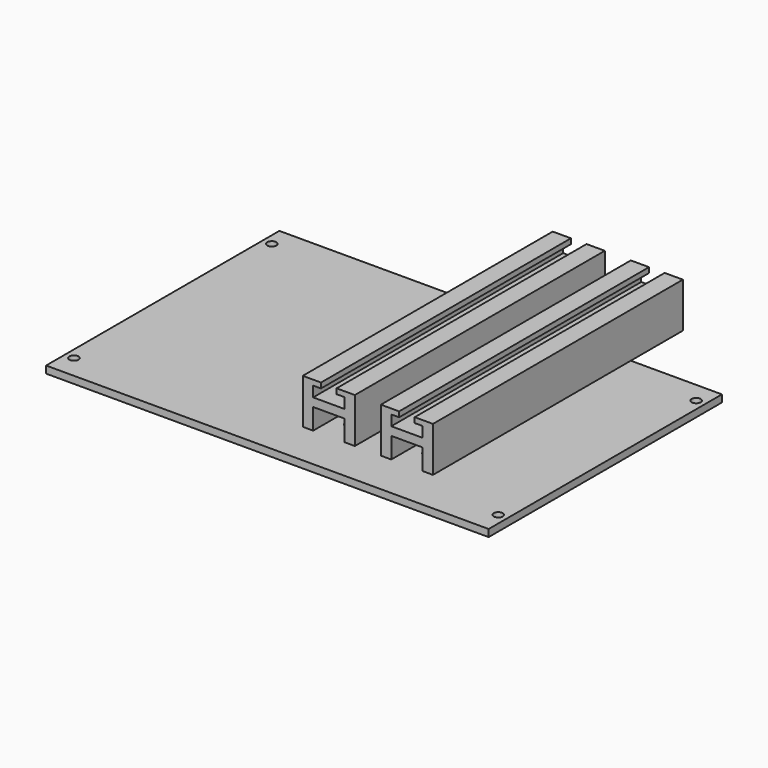
from build123d import *

# Parameters (mm, degrees)
F0_W          = 170
F0_H          = 112
F1_DEPTH      = 2.75
F2_R          = 1.75
F3_DEPTH      = 2.75
F5_DEPTH      = 40
F5_DEPTH_BACK = 80
F6_R          = 1.75
F8_DEPTH      = 14.001


with BuildPart() as f1:
    # F0 (on Top) → F1 (new body)
    with BuildSketch(Plane.XY):
        Rectangle(F0_W, F0_H)
    extrude(amount=-F1_DEPTH)

    # F2 (on face) → F3 (cut, through all)
    with BuildSketch(Plane.XY):
        with Locations((-81.5, 48)):
            Circle(F2_R)
        with Locations((-81.5, -47)):
            Circle(F2_R)
        with Locations((81.5, 48)):
            Circle(F2_R)
        with Locations((81.5, -47)):
            Circle(F2_R)
    extrude(amount=-F3_DEPTH, mode=Mode.SUBTRACT)


with BuildPart() as f5:
    # F4 (on face) → F5 (new body, two sides)
    with BuildSketch(Plane(origin=(0, 56, 0), x_dir=(-1, 0, 0), z_dir=(0, 1, 0))) as f5_sk:
        Polygon((-50, 17.25), (-50, 0), (-46, 0), (-46, 8), (-34, 8), (-34, 0), (-30, 0), (-30, 17.25), (-37, 17.25), (-37, 15.25), (-34, 15.25), (-34, 11.25), (-46, 11.25), (-46, 15.25), (-43, 15.25), (-43, 17.25), align=None)
        Polygon((-20, 17.25), (-20, 0), (-16, 0), (-16, 8), (-4, 8), (-4, 0), (0, 0), (0, 17.25), (-7, 17.25), (-7, 15.25), (-4, 15.25), (-4, 11.25), (-16, 11.25), (-16, 15.25), (-13, 15.25), (-13, 17.25), align=None)
    extrude(amount=F5_DEPTH)
    extrude(f5_sk.sketch, amount=-F5_DEPTH_BACK)


with BuildPart() as f5_1:
    # F7: moved
    add(f5.part.moved(Location((0, -15, 0))))


with BuildPart() as f8_tool:
    # F6 (on face) → F8 (new body, through all)
    with BuildSketch(Plane.XY.offset(11.25)):
        with Locations((10, -29)):
            Circle(F6_R)
        with Locations((40, -29)):
            Circle(F6_R)
        with Locations((40, 26)):
            Circle(F6_R)
        with Locations((10, 26)):
            Circle(F6_R)
    extrude(amount=-F8_DEPTH)


with BuildPart() as f1_1:
    add(f1.part)

    # F8: cut by f8_tool
    add(f8_tool.part, mode=Mode.SUBTRACT)


with BuildPart() as f5_2:
    add(f5_1.part)

    # F8: cut by f8_tool
    add(f8_tool.part, mode=Mode.SUBTRACT)


solid = Compound([f1_1.part, f5_2.part])
